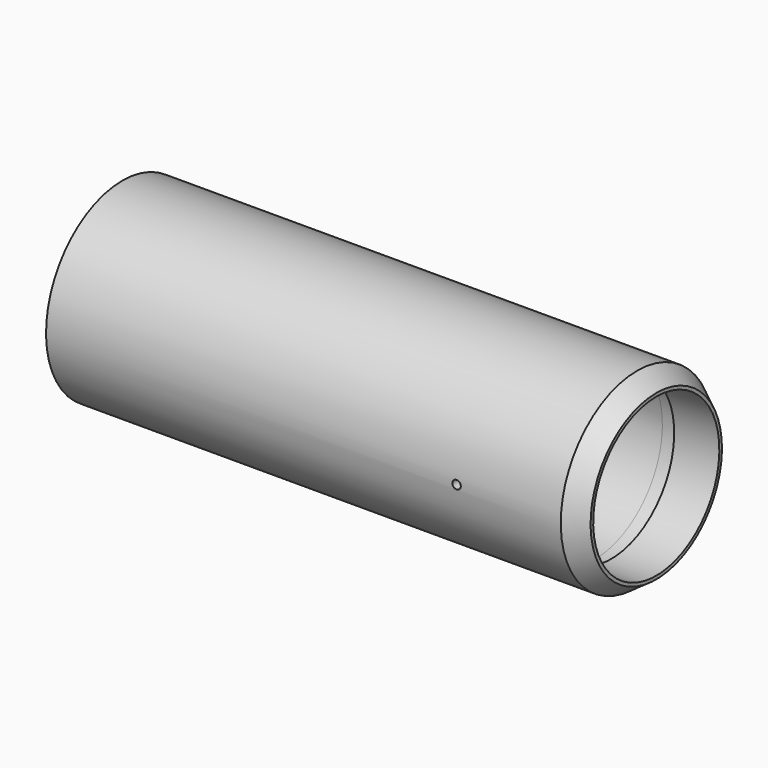
from build123d import *

# Parameters (mm, degrees)
F2_R     = 3.2639
F3_DEPTH = 76.2


with BuildPart() as f1:
    # F0 (on Front) → F1 (revolve)
    with BuildSketch(Plane.XZ):
        Polygon((0, 73.8505), (0, 68.072), (11.8618, 68.072), (13.2207, 66.7131), (38.0111, 66.7131), (39.37, 68.072), (45.72, 68.072), (45.72, 66.7385), (57.912, 66.7385), (61.585271, 65.75425), (365.252, 65.75425), (365.252, 65.43675), (377.952, 65.43675), (377.952, 60.9854), (412.877, 60.9854), (412.877, 63.5), (398.094954, 73.8505), align=None)
    revolve(axis=Axis((206.4385, 0, 0), (1, 0, 0)))

    # F2 (on Front) → F3 (cut, symmetric)
    with BuildSketch(Plane.XZ):
        with Locations((317.5, 0)):
            Circle(F2_R)
    extrude(amount=F3_DEPTH, both=True, mode=Mode.SUBTRACT)


solid = f1.part
